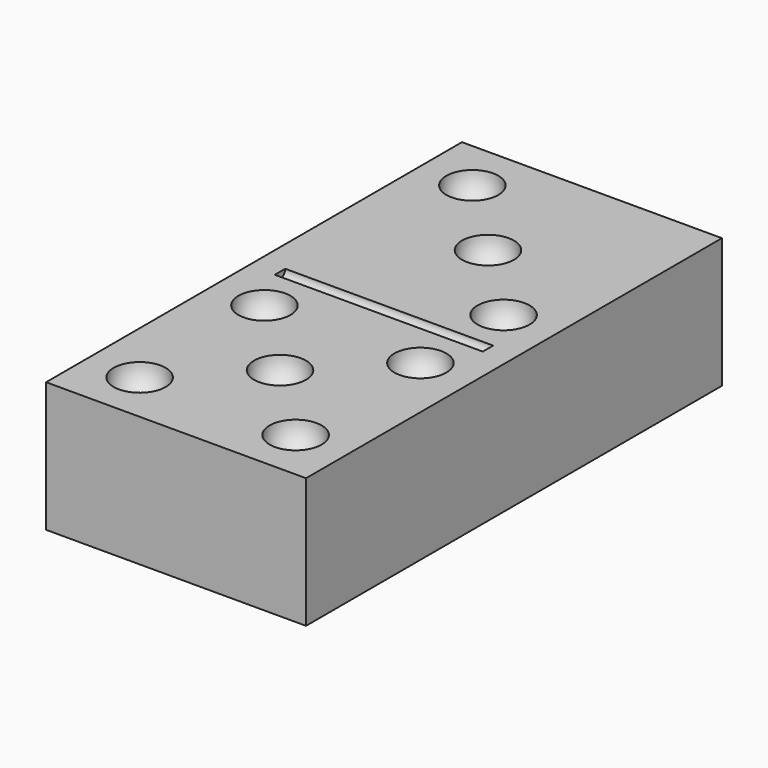
from build123d import *

# Parameters (mm, degrees)
CYLINDER_R     = 0.5
CYLINDER_DEPTH = 16
BOX_W          = 20
BOX_H          = 40
BOX_DEPTH      = 10


with BuildPart() as esfera:
    # Sphere → Sphere (revolve)
    with BuildSketch(Plane(origin=(4, 4, 10), x_dir=(1, 0, 0), z_dir=(0, -1, 0))):
        with BuildLine():
            ThreePointArc((0, -2), (2, 0), (0, 2))
            Line((0, 2), (0, -2))
        make_face()
    revolve(axis=Axis((4, 4, 10), (0, 0, 1)))


with BuildPart() as esfera001:
    # Sphere001 → Sphere001 (revolve)
    with BuildSketch(Plane(origin=(16, 4, 10), x_dir=(1, 0, 0), z_dir=(0, -1, 0))):
        with BuildLine():
            ThreePointArc((0, -2), (2, 0), (0, 2))
            Line((0, 2), (0, -2))
        make_face()
    revolve(axis=Axis((16, 4, 10), (0, 0, 1)))


with BuildPart() as esfera002:
    # Sphere002 → Sphere002 (revolve)
    with BuildSketch(Plane(origin=(10, 10, 10), x_dir=(1, 0, 0), z_dir=(0, -1, 0))):
        with BuildLine():
            ThreePointArc((0, -2), (2, 0), (0, 2))
            Line((0, 2), (0, -2))
        make_face()
    revolve(axis=Axis((10, 10, 10), (0, 0, 1)))


with BuildPart() as esfera003:
    # Sphere003 → Sphere003 (revolve)
    with BuildSketch(Plane(origin=(4, 16, 10), x_dir=(1, 0, 0), z_dir=(0, -1, 0))):
        with BuildLine():
            ThreePointArc((0, -2), (2, 0), (0, 2))
            Line((0, 2), (0, -2))
        make_face()
    revolve(axis=Axis((4, 16, 10), (0, 0, 1)))


with BuildPart() as esfera004:
    # Sphere004 → Sphere004 (revolve)
    with BuildSketch(Plane(origin=(16, 16, 10), x_dir=(1, 0, 0), z_dir=(0, -1, 0))):
        with BuildLine():
            ThreePointArc((0, -2), (2, 0), (0, 2))
            Line((0, 2), (0, -2))
        make_face()
    revolve(axis=Axis((16, 16, 10), (0, 0, 1)))


with BuildPart() as cilindre:
    # Cylinder → Cylinder (new body)
    with BuildSketch(Plane(origin=(2, 20, 10), x_dir=(0, 0, -1), z_dir=(1, 0, 0))):
        Circle(CYLINDER_R)
    extrude(amount=CYLINDER_DEPTH)


with BuildPart() as esfera007:
    # Sphere007 → Sphere007 (revolve)
    with BuildSketch(Plane(origin=(16, 24, 10), x_dir=(1, 0, 0), z_dir=(0, -1, 0))):
        with BuildLine():
            ThreePointArc((0, -2), (2, 0), (0, 2))
            Line((0, 2), (0, -2))
        make_face()
    revolve(axis=Axis((16, 24, 10), (0, 0, 1)))


with BuildPart() as esfera006:
    # Sphere006 → Sphere006 (revolve)
    with BuildSketch(Plane(origin=(10, 30, 10), x_dir=(1, 0, 0), z_dir=(0, -1, 0))):
        with BuildLine():
            ThreePointArc((0, -2), (2, 0), (0, 2))
            Line((0, 2), (0, -2))
        make_face()
    revolve(axis=Axis((10, 30, 10), (0, 0, 1)))


with BuildPart() as esfera005:
    # Sphere005 → Sphere005 (revolve)
    with BuildSketch(Plane(origin=(4, 36, 10), x_dir=(1, 0, 0), z_dir=(0, -1, 0))):
        with BuildLine():
            ThreePointArc((0, -2), (2, 0), (0, 2))
            Line((0, 2), (0, -2))
        make_face()
    revolve(axis=Axis((4, 36, 10), (0, 0, 1)))


with BuildPart() as cut008:
    # Box → Box (new body)
    with BuildSketch(Plane.XY):
        with Locations((10, 20)):
            Rectangle(BOX_W, BOX_H)
    extrude(amount=BOX_DEPTH)

    # Cut: cut Esfera005
    add(esfera005.part, mode=Mode.SUBTRACT)

    # Cut001: cut Esfera006
    add(esfera006.part, mode=Mode.SUBTRACT)

    # Cut002: cut Esfera007
    add(esfera007.part, mode=Mode.SUBTRACT)

    # Cut003: cut Cilindre
    add(cilindre.part, mode=Mode.SUBTRACT)

    # Cut004: cut Esfera004
    add(esfera004.part, mode=Mode.SUBTRACT)

    # Cut005: cut Esfera003
    add(esfera003.part, mode=Mode.SUBTRACT)

    # Cut006: cut Esfera002
    add(esfera002.part, mode=Mode.SUBTRACT)

    # Cut007: cut Esfera001
    add(esfera001.part, mode=Mode.SUBTRACT)

    # Cut008: cut Esfera
    add(esfera.part, mode=Mode.SUBTRACT)


solid = cut008.part
